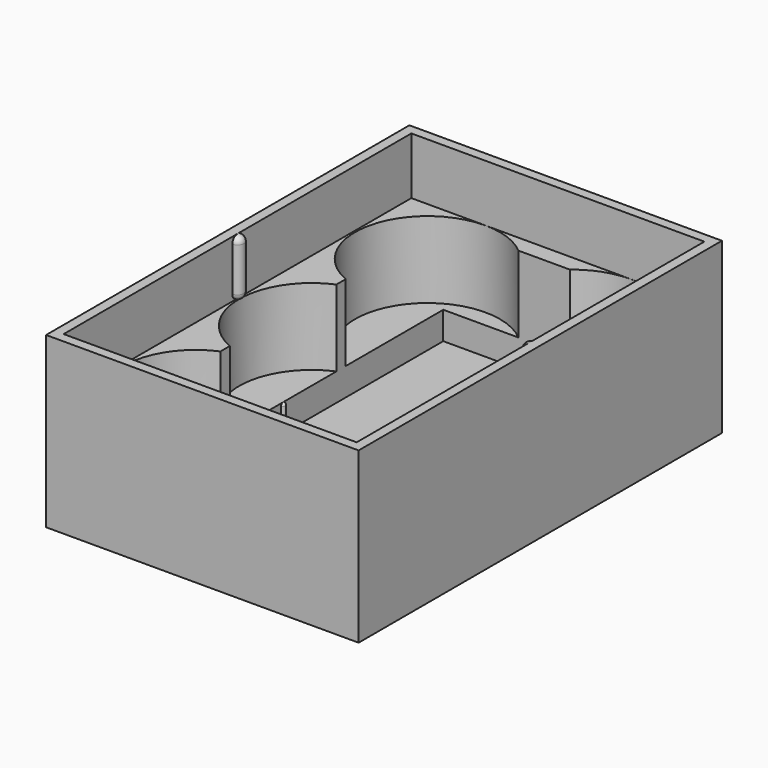
from build123d import *

# Parameters (mm, degrees)
F0_W      = 94
F0_H      = 137.5
F1_DEPTH  = 2.5
F2_W      = 94
F2_H      = 137.5
F2_W_2    = 62
F2_H_2    = 123
F3_DEPTH  = 8.5
F4_W      = 94
F4_H      = 137.5
F5_DEPTH  = 23.5
F6_W      = 62
F6_H      = 123
F7_DEPTH  = 23.501
F8_W      = 94
F8_H      = 137.5
F8_W_2    = 90
F8_H_2    = 133.5
F9_DEPTH  = 17.5
F11_ANGLE = 180
F13_ANGLE = 180
F14_W     = 0.75
F14_H     = 7.75
F16_W     = 0.75
F16_H     = 7.75
F19_DEPTH = 1
F20_DEPTH = 1
F21_DEPTH = 1
F22_DEPTH = 1


with BuildPart() as f1:
    # F0 (on Top) → F1 (new body)
    with BuildSketch(Plane.XY):
        Rectangle(F0_W, F0_H)
    extrude(amount=F1_DEPTH)

    # F2 (on face) → F3 (join)
    with BuildSketch(Plane.XY.offset(2.5)):
        Rectangle(F2_W, F2_H)
        Rectangle(F2_W_2, F2_H_2, mode=Mode.SUBTRACT)
    extrude(amount=F3_DEPTH)

    # F4 (on face) → F5 (join)
    with BuildSketch(Plane.XY.offset(11)):
        Rectangle(F4_W, F4_H)
        with BuildLine():
            ThreePointArc((-22.25, 22.25), (-37.9831258814, 60.2331258814), (0, 44.5))
            ThreePointArc((0, 44.5), (22.25, 66.75), (44.5, 44.5))
            ThreePointArc((44.5, 44.5), (37.9831258872, 28.7668741244), (22.2500000164, 22.25))
            ThreePointArc((22.2500000164, 22.25), (37.9831258872, 15.7331258756), (44.5, 0))
            ThreePointArc((44.5, 0), (37.9831258814, -15.7331258814), (22.25, -22.25))
            ThreePointArc((22.25, -22.25), (37.9831258814, -28.7668741186), (44.5, -44.5))
            ThreePointArc((44.5, -44.5), (22.25, -66.75), (0, -44.5))
            ThreePointArc((0, -44.5), (-37.983125897, -60.2331258658), (-22.249999956, -22.25))
            ThreePointArc((-22.249999956, -22.25), (-44.5, -2.2e-08), (-22.25, 22.25))
        make_face(mode=Mode.SUBTRACT)
    extrude(amount=F5_DEPTH)

    # F6 (on face) → F7 (cut, through all)
    with BuildSketch(Plane.XY.offset(11)):
        Rectangle(F6_W, F6_H)
    extrude(amount=F7_DEPTH, mode=Mode.SUBTRACT)

    # F8 (on face) → F9 (join)
    with BuildSketch(Plane.XY.offset(34.5)):
        Rectangle(F8_W, F8_H)
        Rectangle(F8_W_2, F8_H_2, mode=Mode.SUBTRACT)
    extrude(amount=F9_DEPTH)

    # F10 (on face) → F11 (revolve)
    with BuildSketch(Plane.YZ.offset(-45)):
        with BuildLine():
            Line((0, 36.5), (0, 34.5))
            ThreePointArc((0, 34.5), (1.4142135624, 35.0857864376), (2, 36.5))
            Line((2, 36.5), (2, 50))
            ThreePointArc((2, 50), (1.4142135624, 51.4142135624), (0, 52))
            Line((0, 52), (0, 50))
            Line((0, 50), (0, 36.5))
        make_face()
    revolve(axis=Axis((-45, 0, 43.25), (0, 0, -1)), revolution_arc=F11_ANGLE)

    # F12 (on face) → F13 (revolve)
    with BuildSketch(Plane(origin=(45, 0, 0), x_dir=(0, -1, 0), z_dir=(-1, 0, 0))):
        with BuildLine():
            ThreePointArc((-2, 36.5), (-1.4142135624, 35.0857864376), (0, 34.5))
            Line((0, 34.5), (0, 36.5))
            Line((0, 36.5), (0, 50))
            Line((0, 50), (-2, 50))
            Line((-2, 50), (-2, 36.5))
        make_face()
        with BuildLine():
            Line((-2, 50), (0, 50))
            Line((0, 50), (0, 52))
            ThreePointArc((0, 52), (-1.4142135624, 51.4142135624), (-2, 50))
        make_face()
    revolve(axis=Axis((45, 0, 43.25), (0, 0, 1)), revolution_arc=F13_ANGLE)

    # F14 (on face) → F15 (revolve)
    with BuildSketch(Plane.YZ.offset(-31)):
        with BuildLine():
            ThreePointArc((0.75, 10.25), (0.5303300859, 10.7803300859), (0, 11))
            Line((0, 11), (0, 10.25))
            Line((0, 10.25), (0.75, 10.25))
        make_face()
        with Locations((0.375, 6.375)):
            Rectangle(F14_W, F14_H)
    revolve(axis=Axis((-31, 0, 6.75), (0, 0, -1)))

    # F16 (on face) → F17 (revolve)
    with BuildSketch(Plane(origin=(31, 0, 0), x_dir=(0, -1, 0), z_dir=(-1, 0, 0))):
        with Locations((-0.375, 6.375)):
            Rectangle(F16_W, F16_H)
        with BuildLine():
            Line((-0.75, 10.25), (0, 10.25))
            Line((0, 10.25), (0, 11))
            ThreePointArc((0, 11), (-0.5303300859, 10.7803300859), (-0.75, 10.25))
        make_face()
    revolve(axis=Axis((31, 0, 6.75), (0, 0, 1)))

    # F19 (add): a face of the model
    f19_faces = [f1.faces().sort_by_distance(p)[0] for p in [
        (47, 0, 26),
    ]]
    extrude(f19_faces, amount=F19_DEPTH)

    # F20 (add): a face of the model
    f20_faces = [f1.faces().sort_by_distance(p)[0] for p in [
        (-47, 0, 26),
    ]]
    extrude(f20_faces, amount=F20_DEPTH)

    # F21 (add): a face of the model
    f21_faces = [f1.faces().sort_by_distance(p)[0] for p in [
        (0, -68.75, 26),
    ]]
    extrude(f21_faces, amount=F21_DEPTH)

    # F22 (add): a face of the model
    f22_faces = [f1.faces().sort_by_distance(p)[0] for p in [
        (0, 68.75, 26),
    ]]
    extrude(f22_faces, amount=F22_DEPTH)


solid = f1.part
